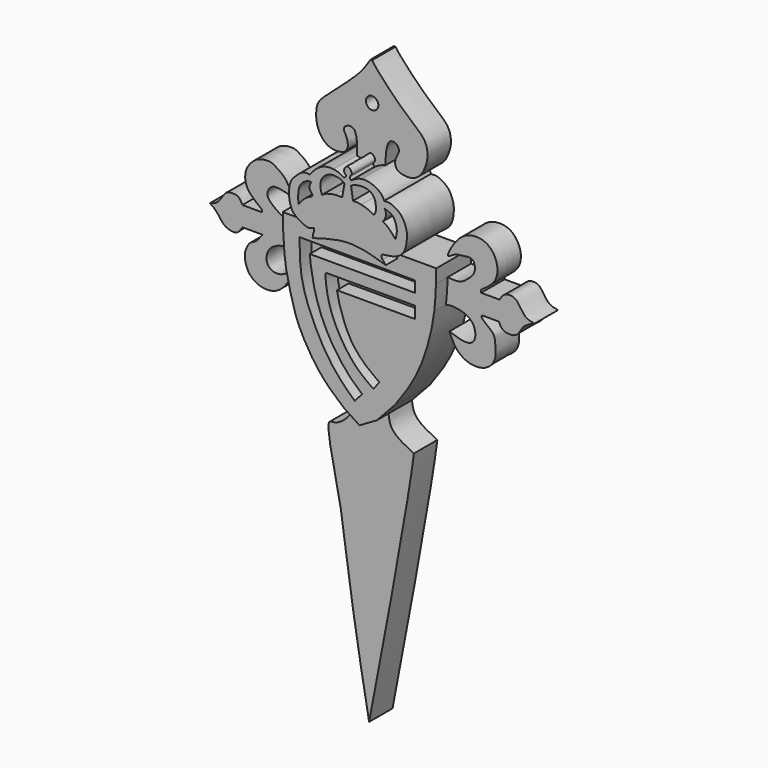
from build123d import *

# Parameters (mm, degrees)
F1_DEPTH = 3
F2_DEPTH = 2
F0_R     = 0.4262682297
F3_DEPTH = 4


with BuildPart() as f1:
    # F0 (on Front) → F1 (new body)
    with BuildSketch(Plane.XZ):
        with BuildLine():
            add(Edge.make_bspline(
                [(-13.1027866155, 18.9514383674), (-13.6197442044, 19.3918004826), (-14.645481917, 20.2655588692), (-15.7682329857, 21.9874272386), (-16.5315657683, 23.5123375251), (-17.102129389, 26.0471104539), (-17.1729458542, 26.6563486923), (-17.1908367393, 26.8668296582)],
                knots=[0, 0, 0, 0, 0.1602817398, 0.3180280717, 0.4697031826, 0.6521637691, 0.7333301774, 0.7333301774, 0.7333301774, 0.7333301774], degree=3))
            add(Edge.make_bspline(
                [(-13.1027866155, 18.9514383674), (-12.7572917069, 18.7283779184), (-12.4117967983, 18.5053174694), (-12.0663018897, 18.2822570205)],
                knots=[0, 0, 0, 0, 1.2337358963, 1.2337358963, 1.2337358963, 1.2337358963], degree=3))
            add(Edge.make_bspline(
                [(-10.8906924725, 18.9650002867), (-11.2825622782, 18.737419198), (-11.674432084, 18.5098381092), (-12.0663018897, 18.2822570205)],
                knots=[0, 0, 0, 0, 1.3594836776, 1.3594836776, 1.3594836776, 1.3594836776], degree=3))
            add(Edge.make_bspline(
                [(-10.8906924725, 18.9650002867), (-10.4753741374, 19.4115688403), (-10.0600558023, 19.858137394), (-9.6447374672, 20.3047059476)],
                knots=[0, 0, 0, 0, 1.829539596, 1.829539596, 1.829539596, 1.829539596], degree=3))
            add(Edge.make_bspline(
                [(-9.6447374672, 20.3047059476), (-9.3122008888, 20.7637540408), (-8.6432334215, 21.6872261043), (-7.8347414904, 23.2459865739), (-7.3301475528, 24.8527046593), (-7.065287737, 25.9920982841), (-6.9778935938, 26.6972600378), (-6.968906078, 26.7754107613)],
                knots=[0, 0, 0, 0, 0.1719158542, 0.3458450018, 0.515401314, 0.6888877266, 0.7102906173, 0.7102906173, 0.7102906173, 0.7102906173], degree=3))
            add(Edge.make_bspline(
                [(-6.968906078, 26.7754107613), (-6.9009752451, 27.3661016533), (-6.8679029375, 27.9973154571), (-6.8506877869, 28.4760985523)],
                knots=[0.7102906173, 0.7102906173, 0.7102906173, 0.7102906173, 0.8720612578, 0.8720612578, 0.8720612578, 0.8720612578], degree=3))
            add(Edge.make_bspline(
                [(-6.8506877869, 28.4760985523), (-6.8370729264, 28.8547513585), (-6.8333762022, 29.1380637114), (-6.829679478, 29.4213760644)],
                knots=[0.8720612578, 0.8720612578, 0.8720612578, 0.8720612578, 1, 1, 1, 1], degree=3))
            add(Edge.make_bspline(
                [(-6.829679478, 29.4213760644), (-7.5999690841, 29.4213760644), (-8.3702586902, 29.4213760644), (-9.1405482963, 29.4213760644)],
                knots=[0, 0, 0, 0, 2.3108688183, 2.3108688183, 2.3108688183, 2.3108688183], degree=3))
            add(Edge.make_bspline(
                [(-9.1405482963, 29.4213760644), (-9.3235768984, 29.4213760644), (-9.5064470046, 29.4213760644), (-9.6894756067, 29.4213760644)],
                knots=[0, 0, 0, 0, 0.5489273104, 0.5489273104, 0.5489273104, 0.5489273104], degree=3))
            add(Edge.make_bspline(
                [(-9.6894756067, 29.4213760644), (-9.632096367, 29.3399867225), (-9.5536473308, 29.2494567237), (-9.4752758741, 29.1591119021)],
                knots=[0.9551994908, 0.9551994908, 0.9551994908, 0.9551994908, 1, 1, 1, 1], degree=3))
            add(Edge.make_bspline(
                [(-9.4752758741, 29.1591119021), (-10.271134707, 29.4120368693), (-11.9197596495, 29.9230100753), (-13.6034635416, 29.4156164983), (-14.4849603609, 29.159111943)],
                knots=[0, 0, 0, 0, 0.4927335248, 1, 1, 1, 1], degree=3))
            add(Edge.make_bspline(
                [(-14.4420665168, 29.3404305536), (-14.4469561481, 29.290161769), (-14.4547783421, 29.2367227715), (-14.4849603609, 29.159111943)],
                knots=[0.2362285899, 0.2362285899, 0.2362285899, 0.2362285899, 0.4176774455, 0.4176774455, 0.4176774455, 0.4176774455], degree=3))
            add(Edge.make_bspline(
                [(-15.0857828557, 29.4003691524), (-14.8886635616, 29.3803896058), (-14.643295299, 29.3604100967), (-14.4420665132, 29.3404305533)],
                knots=[0, 0, 0, 0, 0.6445459952, 0.6445459952, 0.6445459952, 0.6445459952], degree=3))
            add(Edge.make_bspline(
                [(-17.3117835075, 29.4003691524), (-16.5697832902, 29.4003691524), (-15.827783073, 29.4003691524), (-15.0857828557, 29.4003691524)],
                knots=[0, 0, 0, 0, 2.2260006517, 2.2260006517, 2.2260006517, 2.2260006517], degree=3))
            add(Edge.make_bspline(
                [(-17.2907765955, 28.413079679), (-17.3067321302, 28.7873021062), (-17.3092578189, 29.0938356293), (-17.3117835075, 29.4003691524)],
                knots=[0.8883875046, 0.8883875046, 0.8883875046, 0.8883875046, 1, 1, 1, 1], degree=3))
            add(Edge.make_bspline(
                [(-17.1908367393, 26.8668296582), (-17.196281664, 26.9308875842), (-17.228185116, 27.346300594), (-17.2721417188, 27.9760157451), (-17.2907765955, 28.413079679)],
                knots=[0.7333301774, 0.7333301774, 0.7333301774, 0.7333301774, 0.7580324195, 0.8883875046, 0.8883875046, 0.8883875046, 0.8883875046], degree=3))
        make_face()
        with BuildLine():
            add(Edge.make_bspline(
                [(-8.2990135998, 28.2266922295), (-10.9187910954, 28.2391974082), (-13.5385685911, 28.2517025868), (-16.1583460867, 28.2642077655)],
                knots=[0, 0, 0, 0, 7.8594220243, 7.8594220243, 7.8594220243, 7.8594220243], degree=3))
            add(Edge.make_bspline(
                [(-8.2990135998, 28.2266922295), (-8.2990135998, 27.9765942444), (-8.2990135998, 27.7264962594), (-8.2990135998, 27.4763982743)],
                knots=[0, 0, 0, 0, 0.7502939552, 0.7502939552, 0.7502939552, 0.7502939552], degree=3))
            add(Edge.make_bspline(
                [(-15.4643235728, 27.4763982743), (-13.0758869151, 27.4763982743), (-10.6874502574, 27.4763982743), (-8.2990135998, 27.4763982743)],
                knots=[0, 0, 0, 0, 7.1653099731, 7.1653099731, 7.1653099731, 7.1653099731], degree=3))
            add(Edge.make_bspline(
                [(-11.9004258886, 20.217301324), (-12.1999755573, 20.4756631167), (-12.8855373693, 21.0669606452), (-14.1648381241, 22.7629464379), (-15.0957952694, 24.9355494151), (-15.4161259307, 26.8619223631), (-15.4517402867, 27.3159728708), (-15.4643235728, 27.4763982743)],
                knots=[0, 0, 0, 0, 0.1789221768, 0.4094887244, 0.6608253397, 0.8801626013, 1, 1, 1, 1], degree=3))
            add(Edge.make_bspline(
                [(-12.3881176114, 19.635822624), (-12.2255537038, 19.8296488573), (-12.0629897962, 20.0234750907), (-11.9004258886, 20.217301324)],
                knots=[0, 0, 0, 0, 0.7589207436, 0.7589207436, 0.7589207436, 0.7589207436], degree=3))
            add(Edge.make_bspline(
                [(-16.1583460867, 28.2642077655), (-16.1594664253, 28.0528799809), (-16.1625335244, 27.4743376841), (-16.1206087398, 25.2587797653), (-14.2834658729, 21.3939622621), (-12.9638005387, 20.169830539), (-12.3881176114, 19.635822624)],
                knots=[0, 0, 0, 0, 0.1411589594, 0.3864443511, 0.7323461465, 1, 1, 1, 1], degree=3))
        make_face(mode=Mode.SUBTRACT)
        with BuildLine():
            add(Edge.make_bspline(
                [(-8.2990135998, 26.7066974193), (-10.3832948953, 26.7066974193), (-12.288922444, 26.7066974193), (-14.3732037395, 26.7066974193)],
                knots=[0, 0, 0, 0, 6.0741901398, 6.0741901398, 6.0741901398, 6.0741901398], degree=3))
            add(Edge.make_bspline(
                [(-8.2990135998, 26.7066974193), (-8.2990135998, 26.4387186617), (-8.2990135998, 26.170739904), (-8.2990135998, 25.9027611464)],
                knots=[0, 0, 0, 0, 0.8039362729, 0.8039362729, 0.8039362729, 0.8039362729], degree=3))
            add(Edge.make_bspline(
                [(-8.2990135998, 25.9027611464), (-10.0706523905, 25.9027611464), (-11.8422911813, 25.9027611464), (-13.6139299721, 25.9027611464)],
                knots=[0, 0, 0, 0, 5.3149163723, 5.3149163723, 5.3149163723, 5.3149163723], degree=3))
            add(Edge.make_bspline(
                [(-10.710824281, 21.3024541736), (-10.9648287109, 21.4810520438), (-11.5356865384, 21.8824387135), (-12.6314593638, 22.9713914265), (-13.2025411492, 24.348320693), (-13.4886363129, 25.2524374171), (-13.5749033275, 25.7001973998), (-13.6139299721, 25.9027611464)],
                knots=[0, 0, 0, 0, 0.1901467919, 0.4273420923, 0.6619456547, 0.8470663807, 1, 1, 1, 1], degree=3))
            add(Edge.make_bspline(
                [(-10.710824281, 21.3024541736), (-10.8497763673, 21.128764376), (-10.9887284537, 20.9550745785), (-11.1276805401, 20.781384781)],
                knots=[0, 0, 0, 0, 0.6672948768, 0.6672948768, 0.6672948768, 0.6672948768], degree=3))
            add(Edge.make_bspline(
                [(-14.3732037395, 26.7066974193), (-14.3899014895, 26.5505586516), (-14.3968699463, 26.1476193695), (-14.1299514329, 24.5689794984), (-13.2517965415, 22.8359703646), (-12.1872395657, 21.5204225812), (-11.4639768135, 21.0173457002), (-11.1276805401, 20.781384781)],
                knots=[0, 0, 0, 0, 0.1243699542, 0.3389005144, 0.5836262327, 0.8063982193, 1, 1, 1, 1], degree=3))
        make_face(mode=Mode.SUBTRACT)
    extrude(amount=F1_DEPTH)

    # F0 (on Front) → F2 (join)
    with BuildSketch(Plane.XZ):
        with BuildLine():
            add(Edge.make_bspline(
                [(-17.1908367393, 26.8668296582), (-17.3499875587, 26.8536187193), (-17.704558741, 26.8241992829), (-18.1663393187, 26.6849802982), (-18.4206962585, 26.6083069146)],
                knots=[0, 0, 0, 0, 0.4491816141, 1, 1, 1, 1], degree=3))
            add(Edge.make_bspline(
                [(-17.1908367393, 26.8668296582), (-17.196281664, 26.9308875842), (-17.228185116, 27.346300594), (-17.2721417188, 27.9760157451), (-17.2907765955, 28.413079679)],
                knots=[0.7333301774, 0.7333301774, 0.7333301774, 0.7333301774, 0.7580324195, 0.8883875046, 0.8883875046, 0.8883875046, 0.8883875046], degree=3))
            add(Edge.make_bspline(
                [(-17.2907765955, 28.413079679), (-17.5191150365, 28.3924566326), (-17.9595903525, 28.352673831), (-18.4471718295, 28.6445264285), (-18.9991539785, 29.0627871901), (-19.1898130414, 29.3865138759), (-19.1228741732, 29.7434278329), (-18.855323012, 30.0677367522), (-18.3246585132, 30.1038617528), (-17.6901522802, 29.9216039014), (-17.3092578189, 29.812194407)],
                knots=[0, 0, 0, 0, 0.1367481729, 0.2637934919, 0.4042559087, 0.5044154045, 0.6020299357, 0.7061546221, 0.8236044484, 1, 1, 1, 1], degree=3))
            add(Edge.make_bspline(
                [(-17.3092578189, 29.812194407), (-17.4388706301, 30.0251398454), (-17.6864299754, 30.4318637857), (-18.0143794575, 30.9296618998), (-18.5898192768, 31.3072500563), (-18.9607723346, 31.5246685743), (-19.6247345022, 31.4327321673), (-20.0375072564, 31.2556152967), (-20.5511708572, 30.7016463048), (-20.6997925195, 30.1603365677), (-20.6573960909, 29.5593809723), (-20.2943940925, 29.009157728), (-19.7948883136, 28.6223522528), (-19.5167642087, 28.4069795161)],
                knots=[0, 0, 0, 0, 0.0978854215, 0.1869603059, 0.2805094667, 0.3556626832, 0.4461695233, 0.5245147976, 0.6217457207, 0.7077011617, 0.7940329804, 0.8853178574, 1, 1, 1, 1], degree=3))
            add(Edge.make_bspline(
                [(-19.5167642087, 28.4069795161), (-19.5167642087, 28.3570163366), (-19.5167642087, 28.307053157), (-19.5167642087, 28.2570899775)],
                knots=[0, 0, 0, 0, 0.1498895387, 0.1498895387, 0.1498895387, 0.1498895387], degree=3))
            add(Edge.make_bspline(
                [(-19.5167642087, 28.2570899775), (-19.9664322038, 28.2570899775), (-20.416100199, 28.2570899775), (-20.8657681942, 28.2570899775)],
                knots=[0, 0, 0, 0, 1.3490039855, 1.3490039855, 1.3490039855, 1.3490039855], degree=3))
            add(Edge.make_bspline(
                [(-20.8657681942, 28.2570899775), (-20.9479788844, 28.4175699094), (-21.102018571, 28.718264118), (-21.5141046849, 28.7553071951), (-21.9792856009, 28.7236571692), (-22.2725574982, 28.2507890888), (-22.5692769152, 27.7950024987), (-22.9146346126, 27.6968624117), (-23.0860058218, 27.6481639594)],
                knots=[0, 0, 0, 0, 0.1691925555, 0.317019212, 0.4753083147, 0.6502900841, 0.8264691604, 1, 1, 1, 1], degree=3))
            add(Edge.make_bspline(
                [(-23.0860058218, 27.6481639594), (-22.9323051731, 27.544647322), (-22.6026463219, 27.3226236934), (-22.2052637436, 26.6425543086), (-21.7291015425, 26.4424045561), (-21.1797282636, 26.4141988346), (-20.9730593833, 26.745473929), (-20.8657681942, 26.9174538553)],
                knots=[0, 0, 0, 0, 0.2013512842, 0.4318604613, 0.6194225899, 0.8024250056, 1, 1, 1, 1], degree=3))
            add(Edge.make_bspline(
                [(-20.8657681942, 26.9174538553), (-20.4067317148, 26.9174538553), (-19.9476952354, 26.9174538553), (-19.488658756, 26.9174538553)],
                knots=[0, 0, 0, 0, 1.3771094382, 1.3771094382, 1.3771094382, 1.3771094382], degree=3))
            add(Edge.make_bspline(
                [(-19.488658756, 26.9174538553), (-19.6601245095, 26.6921124887), (-19.9547960241, 26.3048533395), (-20.3756511957, 26.2255933116), (-20.7346629599, 25.5283631206), (-20.6973893252, 24.9462284053), (-20.436531313, 24.1679061582), (-19.5012829312, 23.6051800215), (-18.2157028304, 23.8180077105), (-17.6913721037, 24.7182038537), (-17.4089428037, 25.2030920237)],
                knots=[0, 0, 0, 0, 0.1190815754, 0.2046469774, 0.3195681552, 0.4247688697, 0.5447449374, 0.682191981, 0.828813587, 1, 1, 1, 1], degree=3))
            add(Edge.make_bspline(
                [(-17.4089428037, 25.2030920237), (-17.5016372716, 25.2177930185), (-17.7178514005, 25.2520837679), (-18.119901966, 24.9073517354), (-18.8907570842, 24.8753054066), (-19.3226310163, 25.4367278963), (-19.0913775046, 26.3030451674), (-18.6405010384, 26.5082623829), (-18.4206962585, 26.6083069146)],
                knots=[0, 0, 0, 0, 0.1160108229, 0.2706006042, 0.4535792016, 0.6228748292, 0.816149386, 1, 1, 1, 1], degree=3))
        make_face()
        with BuildLine():
            add(Edge.make_bspline(
                [(-6.968906078, 26.7754107613), (-6.9009752451, 27.3661016533), (-6.8679029375, 27.9973154571), (-6.8506877869, 28.4760985523)],
                knots=[0.7102906173, 0.7102906173, 0.7102906173, 0.7102906173, 0.8720612578, 0.8720612578, 0.8720612578, 0.8720612578], degree=3))
            add(Edge.make_bspline(
                [(-6.729315035, 25.2592992038), (-6.3182754889, 25.1129534511), (-5.6162121105, 24.8629921863), (-4.9075121053, 25.1758571397), (-4.9568002471, 26.2288681124), (-5.6986121974, 26.7611466686), (-6.6014959071, 26.8685571965), (-6.8627289518, 26.8006180845), (-6.968906078, 26.7754107613)],
                knots=[0, 0, 0, 0, 0.2064869095, 0.3538075334, 0.5308109373, 0.7084547074, 0.8861656091, 1, 1, 1, 1], degree=3))
            add(Edge.make_bspline(
                [(-4.5090769418, 26.9455574453), (-4.5281781968, 26.8973482273), (-4.5944201134, 26.7301617781), (-3.628568598, 26.1654921864), (-3.6296583075, 25.5725646563), (-3.4728621613, 24.6247965226), (-4.1844225498, 23.7149257283), (-5.5153574351, 23.6925897701), (-6.3726034905, 24.3944627714), (-6.6130255163, 24.9773587564), (-6.729315035, 25.2592992038)],
                knots=[0, 0, 0, 0, 0.0557659122, 0.1933925757, 0.2998566026, 0.431653932, 0.5719023248, 0.7247646363, 0.8668716485, 1, 1, 1, 1], degree=3))
            add(Edge.make_bspline(
                [(-3.3568018116, 26.9455574453), (-3.7408935217, 26.9455574453), (-4.1249852317, 26.9455574453), (-4.5090769418, 26.9455574453)],
                knots=[0, 0, 0, 0, 1.1522751302, 1.1522751302, 1.1522751302, 1.1522751302], degree=3))
            add(Edge.make_bspline(
                [(-3.3568018116, 26.9455574453), (-3.2866572131, 26.7845496239), (-3.1289027294, 26.4224446827), (-2.1342580308, 26.3448597871), (-1.807480711, 27.0527906532), (-1.4918819437, 27.3632591747), (-1.1164347654, 27.5294487502), (-0.9117295267, 27.6200603694)],
                knots=[0, 0, 0, 0, 0.1846555883, 0.4152885268, 0.6286737884, 0.7975416379, 1, 1, 1, 1], degree=3))
            add(Edge.make_bspline(
                [(-3.3005932346, 28.2801296562), (-3.2139262406, 28.4359145989), (-3.0273330109, 28.7713181275), (-2.1248506766, 28.8629836403), (-1.6832366983, 27.7385352195), (-1.1519672105, 27.6569519559), (-0.9117295267, 27.6200603694)],
                knots=[0, 0, 0, 0, 0.2112030623, 0.4547182231, 0.7534260218, 1, 1, 1, 1], degree=3))
            add(Edge.make_bspline(
                [(-4.5652855188, 28.2801296562), (-4.143721424, 28.2801296562), (-3.7221573293, 28.2801296562), (-3.3005932346, 28.2801296562)],
                knots=[0, 0, 0, 0, 1.2646922842, 1.2646922842, 1.2646922842, 1.2646922842], degree=3))
            add(Edge.make_bspline(
                [(-4.5652855188, 28.4760985523), (-4.5652855188, 28.410775587), (-4.5652855188, 28.3454526216), (-4.5652855188, 28.2801296562)],
                knots=[0, 0, 0, 0, 0.1959688962, 0.1959688962, 0.1959688962, 0.1959688962], degree=3))
            add(Edge.make_bspline(
                [(-6.8506877869, 28.4760985523), (-6.5692443504, 28.4473256137), (-6.0336601085, 28.3925709792), (-5.4857962689, 28.7848401578), (-4.8901371736, 29.3453844785), (-5.0618864297, 30.2096244697), (-5.7473951884, 30.1119297783), (-6.4053333607, 30.0517806709), (-7.0284269223, 29.5206343442), (-6.4553299443, 30.7066001801), (-5.5724594684, 31.6007443188), (-4.1410130888, 31.5629236354), (-3.4752203788, 30.6059523242), (-3.413594048, 29.7798917219), (-3.6934368411, 29.0708319524), (-4.2560238471, 28.6870620489), (-4.5652855188, 28.4760985523)],
                knots=[0, 0, 0, 0, 0.0704808285, 0.1341243611, 0.2040538769, 0.268184143, 0.3275627967, 0.395978338, 0.4479316198, 0.5213717867, 0.6132910535, 0.7011902993, 0.7824503304, 0.8527338271, 0.9190457968, 1, 1, 1, 1], degree=3))
        make_face()
        with BuildLine():
            add(Edge.make_bspline(
                [(-13.1027866155, 18.9514383674), (-13.6197442044, 19.3918004826), (-14.645481917, 20.2655588692), (-15.7682329857, 21.9874272386), (-16.5315657683, 23.5123375251), (-17.102129389, 26.0471104539), (-17.1729458542, 26.6563486923), (-17.1908367393, 26.8668296582)],
                knots=[0, 0, 0, 0, 0.1602817398, 0.3180280717, 0.4697031826, 0.6521637691, 0.7333301774, 0.7333301774, 0.7333301774, 0.7333301774], degree=3))
            add(Edge.make_bspline(
                [(-13.1027866155, 18.9514383674), (-12.7572917069, 18.7283779184), (-12.4117967983, 18.5053174694), (-12.0663018897, 18.2822570205)],
                knots=[0, 0, 0, 0, 1.2337358963, 1.2337358963, 1.2337358963, 1.2337358963], degree=3))
            add(Edge.make_bspline(
                [(-10.8906924725, 18.9650002867), (-11.2825622782, 18.737419198), (-11.674432084, 18.5098381092), (-12.0663018897, 18.2822570205)],
                knots=[0, 0, 0, 0, 1.3594836776, 1.3594836776, 1.3594836776, 1.3594836776], degree=3))
            add(Edge.make_bspline(
                [(-10.8906924725, 18.9650002867), (-10.4753741374, 19.4115688403), (-10.0600558023, 19.858137394), (-9.6447374672, 20.3047059476)],
                knots=[0, 0, 0, 0, 1.829539596, 1.829539596, 1.829539596, 1.829539596], degree=3))
            add(Edge.make_bspline(
                [(-9.6447374672, 20.3047059476), (-9.3122008888, 20.7637540408), (-8.6432334215, 21.6872261043), (-7.8347414904, 23.2459865739), (-7.3301475528, 24.8527046593), (-7.065287737, 25.9920982841), (-6.9778935938, 26.6972600378), (-6.968906078, 26.7754107613)],
                knots=[0, 0, 0, 0, 0.1719158542, 0.3458450018, 0.515401314, 0.6888877266, 0.7102906173, 0.7102906173, 0.7102906173, 0.7102906173], degree=3))
            add(Edge.make_bspline(
                [(-6.968906078, 26.7754107613), (-6.9009752451, 27.3661016533), (-6.8679029375, 27.9973154571), (-6.8506877869, 28.4760985523)],
                knots=[0.7102906173, 0.7102906173, 0.7102906173, 0.7102906173, 0.8720612578, 0.8720612578, 0.8720612578, 0.8720612578], degree=3))
            add(Edge.make_bspline(
                [(-6.8506877869, 28.4760985523), (-6.8370729264, 28.8547513585), (-6.8333762022, 29.1380637114), (-6.829679478, 29.4213760644)],
                knots=[0.8720612578, 0.8720612578, 0.8720612578, 0.8720612578, 1, 1, 1, 1], degree=3))
            add(Edge.make_bspline(
                [(-6.829679478, 29.4213760644), (-7.5999690841, 29.4213760644), (-8.3702586902, 29.4213760644), (-9.1405482963, 29.4213760644)],
                knots=[0, 0, 0, 0, 2.3108688183, 2.3108688183, 2.3108688183, 2.3108688183], degree=3))
            add(Edge.make_bspline(
                [(-9.1405482963, 29.4213760644), (-9.3235768984, 29.4213760644), (-9.5064470046, 29.4213760644), (-9.6894756067, 29.4213760644)],
                knots=[0, 0, 0, 0, 0.5489273104, 0.5489273104, 0.5489273104, 0.5489273104], degree=3))
            add(Edge.make_bspline(
                [(-9.6894756067, 29.4213760644), (-9.632096367, 29.3399867225), (-9.5536473308, 29.2494567237), (-9.4752758741, 29.1591119021)],
                knots=[0.9551994908, 0.9551994908, 0.9551994908, 0.9551994908, 1, 1, 1, 1], degree=3))
            add(Edge.make_bspline(
                [(-9.4752758741, 29.1591119021), (-10.271134707, 29.4120368693), (-11.9197596495, 29.9230100753), (-13.6034635416, 29.4156164983), (-14.4849603609, 29.159111943)],
                knots=[0, 0, 0, 0, 0.4927335248, 1, 1, 1, 1], degree=3))
            add(Edge.make_bspline(
                [(-14.4420665168, 29.3404305536), (-14.4469561481, 29.290161769), (-14.4547783421, 29.2367227715), (-14.4849603609, 29.159111943)],
                knots=[0.2362285899, 0.2362285899, 0.2362285899, 0.2362285899, 0.4176774455, 0.4176774455, 0.4176774455, 0.4176774455], degree=3))
            add(Edge.make_bspline(
                [(-15.0857828557, 29.4003691524), (-14.8886635616, 29.3803896058), (-14.643295299, 29.3604100967), (-14.4420665132, 29.3404305533)],
                knots=[0, 0, 0, 0, 0.6445459952, 0.6445459952, 0.6445459952, 0.6445459952], degree=3))
            add(Edge.make_bspline(
                [(-17.3117835075, 29.4003691524), (-16.5697832902, 29.4003691524), (-15.827783073, 29.4003691524), (-15.0857828557, 29.4003691524)],
                knots=[0, 0, 0, 0, 2.2260006517, 2.2260006517, 2.2260006517, 2.2260006517], degree=3))
            add(Edge.make_bspline(
                [(-17.2907765955, 28.413079679), (-17.3067321302, 28.7873021062), (-17.3092578189, 29.0938356293), (-17.3117835075, 29.4003691524)],
                knots=[0.8883875046, 0.8883875046, 0.8883875046, 0.8883875046, 1, 1, 1, 1], degree=3))
            add(Edge.make_bspline(
                [(-17.1908367393, 26.8668296582), (-17.196281664, 26.9308875842), (-17.228185116, 27.346300594), (-17.2721417188, 27.9760157451), (-17.2907765955, 28.413079679)],
                knots=[0.7333301774, 0.7333301774, 0.7333301774, 0.7333301774, 0.7580324195, 0.8883875046, 0.8883875046, 0.8883875046, 0.8883875046], degree=3))
        make_face()
        with BuildLine():
            add(Edge.make_bspline(
                [(-8.2990135998, 28.2266922295), (-10.9187910954, 28.2391974082), (-13.5385685911, 28.2517025868), (-16.1583460867, 28.2642077655)],
                knots=[0, 0, 0, 0, 7.8594220243, 7.8594220243, 7.8594220243, 7.8594220243], degree=3))
            add(Edge.make_bspline(
                [(-8.2990135998, 28.2266922295), (-8.2990135998, 27.9765942444), (-8.2990135998, 27.7264962594), (-8.2990135998, 27.4763982743)],
                knots=[0, 0, 0, 0, 0.7502939552, 0.7502939552, 0.7502939552, 0.7502939552], degree=3))
            add(Edge.make_bspline(
                [(-15.4643235728, 27.4763982743), (-13.0758869151, 27.4763982743), (-10.6874502574, 27.4763982743), (-8.2990135998, 27.4763982743)],
                knots=[0, 0, 0, 0, 7.1653099731, 7.1653099731, 7.1653099731, 7.1653099731], degree=3))
            add(Edge.make_bspline(
                [(-11.9004258886, 20.217301324), (-12.1999755573, 20.4756631167), (-12.8855373693, 21.0669606452), (-14.1648381241, 22.7629464379), (-15.0957952694, 24.9355494151), (-15.4161259307, 26.8619223631), (-15.4517402867, 27.3159728708), (-15.4643235728, 27.4763982743)],
                knots=[0, 0, 0, 0, 0.1789221768, 0.4094887244, 0.6608253397, 0.8801626013, 1, 1, 1, 1], degree=3))
            add(Edge.make_bspline(
                [(-12.3881176114, 19.635822624), (-12.2255537038, 19.8296488573), (-12.0629897962, 20.0234750907), (-11.9004258886, 20.217301324)],
                knots=[0, 0, 0, 0, 0.7589207436, 0.7589207436, 0.7589207436, 0.7589207436], degree=3))
            add(Edge.make_bspline(
                [(-16.1583460867, 28.2642077655), (-16.1594664253, 28.0528799809), (-16.1625335244, 27.4743376841), (-16.1206087398, 25.2587797653), (-14.2834658729, 21.3939622621), (-12.9638005387, 20.169830539), (-12.3881176114, 19.635822624)],
                knots=[0, 0, 0, 0, 0.1411589594, 0.3864443511, 0.7323461465, 1, 1, 1, 1], degree=3))
        make_face(mode=Mode.SUBTRACT)
        with BuildLine():
            add(Edge.make_bspline(
                [(-8.2990135998, 26.7066974193), (-10.3832948953, 26.7066974193), (-12.288922444, 26.7066974193), (-14.3732037395, 26.7066974193)],
                knots=[0, 0, 0, 0, 6.0741901398, 6.0741901398, 6.0741901398, 6.0741901398], degree=3))
            add(Edge.make_bspline(
                [(-8.2990135998, 26.7066974193), (-8.2990135998, 26.4387186617), (-8.2990135998, 26.170739904), (-8.2990135998, 25.9027611464)],
                knots=[0, 0, 0, 0, 0.8039362729, 0.8039362729, 0.8039362729, 0.8039362729], degree=3))
            add(Edge.make_bspline(
                [(-8.2990135998, 25.9027611464), (-10.0706523905, 25.9027611464), (-11.8422911813, 25.9027611464), (-13.6139299721, 25.9027611464)],
                knots=[0, 0, 0, 0, 5.3149163723, 5.3149163723, 5.3149163723, 5.3149163723], degree=3))
            add(Edge.make_bspline(
                [(-10.710824281, 21.3024541736), (-10.9648287109, 21.4810520438), (-11.5356865384, 21.8824387135), (-12.6314593638, 22.9713914265), (-13.2025411492, 24.348320693), (-13.4886363129, 25.2524374171), (-13.5749033275, 25.7001973998), (-13.6139299721, 25.9027611464)],
                knots=[0, 0, 0, 0, 0.1901467919, 0.4273420923, 0.6619456547, 0.8470663807, 1, 1, 1, 1], degree=3))
            add(Edge.make_bspline(
                [(-10.710824281, 21.3024541736), (-10.8497763673, 21.128764376), (-10.9887284537, 20.9550745785), (-11.1276805401, 20.781384781)],
                knots=[0, 0, 0, 0, 0.6672948768, 0.6672948768, 0.6672948768, 0.6672948768], degree=3))
            add(Edge.make_bspline(
                [(-14.3732037395, 26.7066974193), (-14.3899014895, 26.5505586516), (-14.3968699463, 26.1476193695), (-14.1299514329, 24.5689794984), (-13.2517965415, 22.8359703646), (-12.1872395657, 21.5204225812), (-11.4639768135, 21.0173457002), (-11.1276805401, 20.781384781)],
                knots=[0, 0, 0, 0, 0.1243699542, 0.3389005144, 0.5836262327, 0.8063982193, 1, 1, 1, 1], degree=3))
        make_face(mode=Mode.SUBTRACT)
        with BuildLine():
            add(Edge.make_bspline(
                [(-8.2990135998, 26.7066974193), (-8.2990135998, 26.4387186617), (-8.2990135998, 26.170739904), (-8.2990135998, 25.9027611464)],
                knots=[0, 0, 0, 0, 0.8039362729, 0.8039362729, 0.8039362729, 0.8039362729], degree=3))
            add(Edge.make_bspline(
                [(-8.2990135998, 26.7066974193), (-10.3832948953, 26.7066974193), (-12.288922444, 26.7066974193), (-14.3732037395, 26.7066974193)],
                knots=[0, 0, 0, 0, 6.0741901398, 6.0741901398, 6.0741901398, 6.0741901398], degree=3))
            add(Edge.make_bspline(
                [(-14.3732037395, 26.7066974193), (-14.3899014895, 26.5505586516), (-14.3968699463, 26.1476193695), (-14.1299514329, 24.5689794984), (-13.2517965415, 22.8359703646), (-12.1872395657, 21.5204225812), (-11.4639768135, 21.0173457002), (-11.1276805401, 20.781384781)],
                knots=[0, 0, 0, 0, 0.1243699542, 0.3389005144, 0.5836262327, 0.8063982193, 1, 1, 1, 1], degree=3))
            add(Edge.make_bspline(
                [(-10.710824281, 21.3024541736), (-10.8497763673, 21.128764376), (-10.9887284537, 20.9550745785), (-11.1276805401, 20.781384781)],
                knots=[0, 0, 0, 0, 0.6672948768, 0.6672948768, 0.6672948768, 0.6672948768], degree=3))
            add(Edge.make_bspline(
                [(-10.710824281, 21.3024541736), (-10.9648287109, 21.4810520438), (-11.5356865384, 21.8824387135), (-12.6314593638, 22.9713914265), (-13.2025411492, 24.348320693), (-13.4886363129, 25.2524374171), (-13.5749033275, 25.7001973998), (-13.6139299721, 25.9027611464)],
                knots=[0, 0, 0, 0, 0.1901467919, 0.4273420923, 0.6619456547, 0.8470663807, 1, 1, 1, 1], degree=3))
            add(Edge.make_bspline(
                [(-8.2990135998, 25.9027611464), (-10.0706523905, 25.9027611464), (-11.8422911813, 25.9027611464), (-13.6139299721, 25.9027611464)],
                knots=[0, 0, 0, 0, 5.3149163723, 5.3149163723, 5.3149163723, 5.3149163723], degree=3))
        make_face()
        with BuildLine():
            add(Edge.make_bspline(
                [(-8.2990135998, 28.2266922295), (-8.2990135998, 27.9765942444), (-8.2990135998, 27.7264962594), (-8.2990135998, 27.4763982743)],
                knots=[0, 0, 0, 0, 0.7502939552, 0.7502939552, 0.7502939552, 0.7502939552], degree=3))
            add(Edge.make_bspline(
                [(-8.2990135998, 28.2266922295), (-10.9187910954, 28.2391974082), (-13.5385685911, 28.2517025868), (-16.1583460867, 28.2642077655)],
                knots=[0, 0, 0, 0, 7.8594220243, 7.8594220243, 7.8594220243, 7.8594220243], degree=3))
            add(Edge.make_bspline(
                [(-16.1583460867, 28.2642077655), (-16.1594664253, 28.0528799809), (-16.1625335244, 27.4743376841), (-16.1206087398, 25.2587797653), (-14.2834658729, 21.3939622621), (-12.9638005387, 20.169830539), (-12.3881176114, 19.635822624)],
                knots=[0, 0, 0, 0, 0.1411589594, 0.3864443511, 0.7323461465, 1, 1, 1, 1], degree=3))
            add(Edge.make_bspline(
                [(-12.3881176114, 19.635822624), (-12.2255537038, 19.8296488573), (-12.0629897962, 20.0234750907), (-11.9004258886, 20.217301324)],
                knots=[0, 0, 0, 0, 0.7589207436, 0.7589207436, 0.7589207436, 0.7589207436], degree=3))
            add(Edge.make_bspline(
                [(-11.9004258886, 20.217301324), (-12.1999755573, 20.4756631167), (-12.8855373693, 21.0669606452), (-14.1648381241, 22.7629464379), (-15.0957952694, 24.9355494151), (-15.4161259307, 26.8619223631), (-15.4517402867, 27.3159728708), (-15.4643235728, 27.4763982743)],
                knots=[0, 0, 0, 0, 0.1789221768, 0.4094887244, 0.6608253397, 0.8801626013, 1, 1, 1, 1], degree=3))
            add(Edge.make_bspline(
                [(-15.4643235728, 27.4763982743), (-13.0758869151, 27.4763982743), (-10.6874502574, 27.4763982743), (-8.2990135998, 27.4763982743)],
                knots=[0, 0, 0, 0, 7.1653099731, 7.1653099731, 7.1653099731, 7.1653099731], degree=3))
        make_face()
        with BuildLine():
            add(Edge.make_bspline(
                [(-13.1027866155, 18.9514383674), (-12.7572917069, 18.7283779184), (-12.4117967983, 18.5053174694), (-12.0663018897, 18.2822570205)],
                knots=[0, 0, 0, 0, 1.2337358963, 1.2337358963, 1.2337358963, 1.2337358963], degree=3))
            add(Edge.make_bspline(
                [(-13.1027866155, 18.9514383674), (-13.2051038188, 18.6827596321), (-13.404592384, 18.1589012842), (-13.84097761, 17.6219195244), (-14.5406999373, 17.149568123), (-15.3089960233, 17.378695539), (-14.1241385933, 12.6251545706), (-13.8055518069, 9.2984894783), (-12.8296931452, 3.328575316), (-12.214828264, 0)],
                knots=[0, 0, 0, 0, 0.0887544759, 0.1704473227, 0.2574613606, 0.3159289455, 0.5096319139, 0.7033348823, 1, 1, 1, 1], degree=3))
            add(Edge.make_bspline(
                [(-12.214828264, 0), (-11.090725915, 5.7401887737), (-9.5343314377, 14.3309600855), (-9.239738122, 16.500834293), (-9.1596208513, 17.1279441565)],
                knots=[0, 0, 0, 0, 0.7128999241, 1, 1, 1, 1], degree=3))
            add(Edge.make_bspline(
                [(-9.1596208513, 17.1279441565), (-9.4300791212, 17.2567126402), (-9.9755022051, 17.5163952283), (-10.7822131492, 18.1215630587), (-10.8554854423, 18.6912622228), (-10.8906924725, 18.9650002867)],
                knots=[0, 0, 0, 0, 0.3381821445, 0.6819992905, 1, 1, 1, 1], degree=3))
            add(Edge.make_bspline(
                [(-10.8906924725, 18.9650002867), (-11.2825622782, 18.737419198), (-11.674432084, 18.5098381092), (-12.0663018897, 18.2822570205)],
                knots=[0, 0, 0, 0, 1.3594836776, 1.3594836776, 1.3594836776, 1.3594836776], degree=3))
        make_face()
    extrude(amount=F2_DEPTH)



with BuildPart() as f2:
    # F0 (on Front) → F2, piece 2 (new body)
    with BuildSketch(Plane.XZ):
        with BuildLine():
            add(Edge.make_bspline(
                [(-13.0570889022, 33.7699230008), (-13.0373171407, 34.0526327317), (-13.0003492857, 34.5831844683), (-13.1678762878, 35.2865016034), (-13.387725736, 35.3753082819), (-13.5990164654, 35.4113857794), (-13.8582645643, 35.2914942202), (-14.003957046, 35.0625903298), (-13.7183274627, 34.6643522787), (-13.6206091909, 34.0985358716), (-13.8431903264, 33.6743869053), (-14.6406084846, 33.5250667063), (-15.3879936002, 33.8795253888), (-15.8714958073, 34.8031022501), (-15.8280059493, 35.8146506703), (-15.613666036, 36.3139691214), (-14.5005360389, 37.2781925628), (-12.7924318378, 38.7990496983), (-12.3827490587, 39.4398928264), (-12.2036382406, 39.7182051124), (-12.1255544946, 39.8395359516)],
                knots=[0, 0, 0, 0, 0.0642665368, 0.1207723146, 0.1517593343, 0.1831671841, 0.2194858738, 0.2519045853, 0.2986216984, 0.350828729, 0.3954736596, 0.4548693858, 0.5163858682, 0.5861972417, 0.6544436713, 0.7033361291, 0.7874329088, 0.8940444443, 0.9538113475, 1, 1, 1, 1], degree=3))
            add(Edge.make_bspline(
                [(-13.0570889022, 33.7699230008), (-12.9167195175, 33.751620404), (-12.6343803054, 33.6771056198), (-12.427483145, 33.5512655187), (-12.3224342242, 33.4873721004)],
                knots=[0.6987972686, 0.6987972686, 0.6987972686, 0.6987972686, 0.8470688441, 1, 1, 1, 1], degree=3))
            add(Edge.make_bspline(
                [(-12.3224342242, 33.4873721004), (-12.2581336202, 33.5393787982), (-12.1210285055, 33.6502702026), (-12.4266602462, 33.8373079561), (-12.1405035973, 34.4236812522), (-11.6558526568, 33.8932697447), (-12.0091977603, 33.6650054073), (-11.8942640734, 33.5422765725), (-11.8428468704, 33.4873721004)],
                knots=[0, 0, 0, 0, 0.1378632469, 0.2939592338, 0.4932765733, 0.6988745319, 0.8652872824, 1, 1, 1, 1], degree=3))
            add(Edge.make_bspline(
                [(-11.8428468704, 33.4873721004), (-11.6993948746, 33.5773344817), (-11.4762294945, 33.7168168465), (-11.2106436618, 33.7897187014), (-11.1166870848, 33.8040997926)],
                knots=[0, 0, 0, 0, 0.199375384, 0.3013825192, 0.3013825192, 0.3013825192, 0.3013825192], degree=3))
            add(Edge.make_bspline(
                [(-11.1166870848, 33.8040997926), (-11.102851249, 34.1096860399), (-11.0773646561, 34.668163959), (-10.9164417799, 35.3289112337), (-10.6127852082, 35.4385665862), (-10.3423784425, 35.3764002935), (-10.0962445544, 35.0278085597), (-10.3218569092, 34.6370764974), (-10.4745612566, 34.2962168602), (-10.3919656036, 33.7793912899), (-9.867064287, 33.5991704955), (-9.2118143579, 33.597496614), (-8.5869039788, 34.0172512496), (-8.2652640771, 34.8913475313), (-8.210727682, 35.3831678267), (-8.2931574468, 36.218395815), (-9.4470813453, 37.1521537522), (-10.552791305, 38.1408739839), (-11.7706922836, 39.4890119866), (-11.952364786, 39.7548645959), (-12.0104746893, 39.8395359516)],
                knots=[0, 0, 0, 0, 0.065226502, 0.1194321229, 0.1547674745, 0.1896002788, 0.2308394276, 0.2748496617, 0.3173366261, 0.3631836703, 0.4116448228, 0.4664402217, 0.5245432604, 0.5893249224, 0.6378165692, 0.6970375556, 0.778276573, 0.8663408824, 0.9573777645, 1, 1, 1, 1], degree=3))
            add(Edge.make_bspline(
                [(-12.0104746893, 39.8395359516), (-12.0488346244, 39.8395359516), (-12.0871945595, 39.8395359516), (-12.1255544946, 39.8395359516)],
                knots=[0, 0, 0, 0, 0.1150798053, 0.1150798053, 0.1150798053, 0.1150798053], degree=3))
        make_face()
        with Locations((-12.0104746893, 37.263520062)):
            Circle(F0_R, mode=Mode.SUBTRACT)
    extrude(amount=F2_DEPTH)


with BuildPart() as f2b:
    # F0 (on Front) → F2, piece 3 (new body)
    with BuildSketch(Plane.XZ):
        with BuildLine():
            Line((-12.9530228789, 33.3958219274), (-12.9530228789, 32.2592288434))
            add(Edge.make_bspline(
                [(-12.9530228789, 32.2592288434), (-12.9274508205, 32.2617769334), (-12.736557615, 32.2781357993), (-12.5841430603, 32.2714704659), (-12.4517744407, 32.2656817734)],
                knots=[0.6369351268, 0.6369351268, 0.6369351268, 0.6369351268, 0.6846863071, 1, 1, 1, 1], degree=3))
            add(Edge.make_bspline(
                [(-12.4517744407, 32.2656817734), (-12.4016419674, 32.5553367535), (-12.3515094941, 32.8449917336), (-12.3013770208, 33.1346467137)],
                knots=[0, 0, 0, 0, 0.8818840351, 0.8818840351, 0.8818840351, 0.8818840351], degree=3))
            add(Edge.make_bspline(
                [(-12.3013770208, 33.1346467137), (-12.3425490905, 33.1770402974), (-12.4458608997, 33.285245644), (-12.73803308, 33.3745058989), (-12.9199222329, 33.3936375591), (-12.9530228789, 33.3958219274)],
                knots=[0, 0, 0, 0, 0.1017054459, 0.25070585, 0.2842769852, 0.2842769852, 0.2842769852, 0.2842769852], degree=3))
        make_face()
    extrude(amount=F2_DEPTH)


with BuildPart() as f2c:
    # F0 (on Front) → F2, piece 4 (new body)
    with BuildSketch(Plane.XZ):
        with BuildLine():
            add(Edge.make_bspline(
                [(-11.1479187474, 33.3606028467), (-11.3784223615, 33.3545466007), (-11.6241570562, 33.3003742813), (-11.850181967, 33.1764258444)],
                knots=[0.7848252557, 0.7848252557, 0.7848252557, 0.7848252557, 1, 1, 1, 1], degree=3))
            add(Edge.make_bspline(
                [(-11.850181967, 33.1764258444), (-11.805619734, 32.8839843472), (-11.761057501, 32.5915428499), (-11.716495268, 32.2991013527)],
                knots=[0, 0, 0, 0, 0.887451631, 0.887451631, 0.887451631, 0.887451631], degree=3))
            add(Edge.make_bspline(
                [(-11.716495268, 32.2991013527), (-11.6499972046, 32.3012469386), (-11.5059265153, 32.3058064235), (-11.2785263007, 32.2805370158), (-11.1479187474, 32.2534901053)],
                knots=[0, 0, 0, 0, 0.1950798802, 0.4226602646, 0.4226602646, 0.4226602646, 0.4226602646], degree=3))
            Line((-11.1479187474, 32.2534901053), (-11.1479187474, 33.3606028467))
        make_face()
    extrude(amount=F2_DEPTH)


with BuildPart() as f1_1:
    add(f1.part)

    add(f2.part)  # F3 merges F2

    add(f2b.part)  # F3 merges F2b

    add(f2c.part)  # F3 merges F2c
    # F0 (on Front) → F3 (join)
    with BuildSketch(Plane.XZ):
        with BuildLine():
            add(Edge.make_bspline(
                [(-14.3950113948, 29.5669889243), (-14.4343054192, 29.4659472478), (-14.435700697, 29.4058755742), (-14.4420665168, 29.3404305536)],
                knots=[0, 0, 0, 0, 0.2362285899, 0.2362285899, 0.2362285899, 0.2362285899], degree=3))
            add(Edge.make_bspline(
                [(-14.4420665168, 29.3404305536), (-14.4469561481, 29.290161769), (-14.4547783421, 29.2367227715), (-14.4849603609, 29.159111943)],
                knots=[0.2362285899, 0.2362285899, 0.2362285899, 0.2362285899, 0.4176774455, 0.4176774455, 0.4176774455, 0.4176774455], degree=3))
            add(Edge.make_bspline(
                [(-9.4752758741, 29.1591119021), (-10.271134707, 29.4120368693), (-11.9197596495, 29.9230100753), (-13.6034635416, 29.4156164983), (-14.4849603609, 29.159111943)],
                knots=[0, 0, 0, 0, 0.4927335248, 1, 1, 1, 1], degree=3))
            add(Edge.make_bspline(
                [(-9.6894756067, 29.4213760644), (-9.632096367, 29.3399867225), (-9.5536473308, 29.2494567237), (-9.4752758741, 29.1591119021)],
                knots=[0.9551994908, 0.9551994908, 0.9551994908, 0.9551994908, 1, 1, 1, 1], degree=3))
            add(Edge.make_bspline(
                [(-9.5899021253, 32.9854786396), (-9.5418876845, 32.9841136719), (-9.4390658081, 32.9806820791), (-9.2452554717, 33.0122957447), (-8.841354219, 32.8343007988), (-8.5550637021, 32.6352662706), (-8.2705501975, 32.336120217), (-8.0378478561, 31.7340540856), (-8.012099065, 31.2388154021), (-8.1505472544, 30.1852081026), (-9.0300050086, 29.7598129279), (-9.8725292644, 29.7687541396), (-9.7577706565, 29.5182488913), (-9.6894756067, 29.4213760644)],
                knots=[0, 0, 0, 0, 0.0491234091, 0.1052982509, 0.1896605686, 0.2666193835, 0.3486515012, 0.4498243846, 0.5428369005, 0.6692052477, 0.796033423, 0.9018761456, 0.9551994908, 0.9551994908, 0.9551994908, 0.9551994908], degree=3))
            add(Edge.make_bspline(
                [(-11.1166870848, 33.8040997926), (-11.0138008101, 33.8198476725), (-10.6817944428, 33.8303374525), (-10.1140438891, 33.6147116104), (-9.7616627834, 33.3388890827), (-9.6123135593, 33.0944729352), (-9.5899021253, 32.9854786396)],
                knots=[0.3013825192, 0.3013825192, 0.3013825192, 0.3013825192, 0.4130844825, 0.6455305736, 0.8317874986, 1, 1, 1, 1], degree=3))
            add(Edge.make_bspline(
                [(-11.8428468704, 33.4873721004), (-11.6993948746, 33.5773344817), (-11.4762294945, 33.7168168465), (-11.2106436618, 33.7897187014), (-11.1166870848, 33.8040997926)],
                knots=[0, 0, 0, 0, 0.199375384, 0.3013825192, 0.3013825192, 0.3013825192, 0.3013825192], degree=3))
            add(Edge.make_bspline(
                [(-12.3224342242, 33.4873721004), (-12.2581336202, 33.5393787982), (-12.1210285055, 33.6502702026), (-12.4266602462, 33.8373079561), (-12.1405035973, 34.4236812522), (-11.6558526568, 33.8932697447), (-12.0091977603, 33.6650054073), (-11.8942640734, 33.5422765725), (-11.8428468704, 33.4873721004)],
                knots=[0, 0, 0, 0, 0.1378632469, 0.2939592338, 0.4932765733, 0.6988745319, 0.8652872824, 1, 1, 1, 1], degree=3))
            add(Edge.make_bspline(
                [(-13.0570889022, 33.7699230008), (-12.9167195175, 33.751620404), (-12.6343803054, 33.6771056198), (-12.427483145, 33.5512655187), (-12.3224342242, 33.4873721004)],
                knots=[0.6987972686, 0.6987972686, 0.6987972686, 0.6987972686, 0.8470688441, 1, 1, 1, 1], degree=3))
            add(Edge.make_bspline(
                [(-14.6757578477, 32.9185575247), (-14.5831764938, 33.0300214422), (-14.4000283364, 33.2505238461), (-14.0966951249, 33.5270309), (-13.6211056885, 33.7665194705), (-13.2679891371, 33.7933921548), (-13.0798683413, 33.7728931847), (-13.0570889022, 33.7699230008)],
                knots=[0, 0, 0, 0, 0.1625280328, 0.3215194901, 0.5004034462, 0.6747354453, 0.6987972686, 0.6987972686, 0.6987972686, 0.6987972686], degree=3))
            add(Edge.make_bspline(
                [(-14.3950113948, 29.8068188131), (-14.5109753863, 29.748184264), (-14.7727572514, 29.6158202308), (-15.3529331219, 29.9191273166), (-15.8642125148, 30.2431563091), (-16.1087540349, 30.9807757046), (-16.0850264351, 31.8693422496), (-15.8487427496, 32.3237200342), (-15.388393046, 32.7459649621), (-15.0818525074, 32.9588133444), (-14.8129568354, 32.9321579442), (-14.6757578477, 32.9185575247)],
                knots=[0, 0, 0, 0, 0.0929188642, 0.2097588507, 0.3251309251, 0.4544105389, 0.5938527091, 0.7004737139, 0.8169618132, 0.9066081884, 1, 1, 1, 1], degree=3))
            add(Edge.make_bspline(
                [(-14.3950113948, 29.5669889243), (-14.3950113948, 29.6469322206), (-14.3950113948, 29.7268755168), (-14.3950113948, 29.8068188131)],
                knots=[0, 0, 0, 0, 0.2398298887, 0.2398298887, 0.2398298887, 0.2398298887], degree=3))
        make_face()
        with BuildLine():
            add(Edge.make_bspline(
                [(-15.4437823221, 30.8880154043), (-15.2523504417, 31.1222109644), (-14.9284803245, 31.5184299395), (-14.3202889862, 31.6706524222), (-14.7933282023, 32.0503237162), (-14.6490779105, 32.3419534644), (-14.5738329738, 32.4940755963)],
                knots=[0, 0, 0, 0, 0.3236228051, 0.5475146331, 0.7639711342, 1, 1, 1, 1], degree=3))
            add(Edge.make_bspline(
                [(-14.5738329738, 32.4940755963), (-14.6249150668, 32.4998044998), (-14.7528486864, 32.5141523722), (-15.1279307453, 32.3521047797), (-15.4947471177, 31.8646878658), (-15.4622440563, 31.2418099634), (-15.4437823221, 30.8880154043)],
                knots=[0, 0, 0, 0, 0.1479357689, 0.3705008411, 0.6424445681, 1, 1, 1, 1], degree=3))
        make_face(mode=Mode.SUBTRACT)
        with BuildLine():
            add(Edge.make_bspline(
                [(-13.8387801126, 31.9648832083), (-13.7343847539, 32.0313504733), (-13.5156742393, 32.1706008186), (-13.1313062874, 32.2414640558), (-12.9530228789, 32.2592288434)],
                knots=[0, 0, 0, 0, 0.3040232021, 0.6369351268, 0.6369351268, 0.6369351268, 0.6369351268], degree=3))
            add(Edge.make_bspline(
                [(-12.9530228789, 33.3958219274), (-13.0679260831, 33.4034045866), (-13.3067513951, 33.3851027233), (-13.5988398353, 33.2296522221), (-13.8551963296, 32.9837466895), (-13.999553291, 32.4818276065), (-13.8934114966, 32.1401402855), (-13.8387801126, 31.9648832083)],
                knots=[0.2842769852, 0.2842769852, 0.2842769852, 0.2842769852, 0.4008134117, 0.53558997, 0.6701871734, 0.8310521054, 1, 1, 1, 1], degree=3))
            add(Edge.make_bspline(
                [(-12.3013770208, 33.1346467137), (-12.3425490905, 33.1770402974), (-12.4458608997, 33.285245644), (-12.73803308, 33.3745058989), (-12.9199222329, 33.3936375591), (-12.9530228789, 33.3958219274)],
                knots=[0, 0, 0, 0, 0.1017054459, 0.25070585, 0.2842769852, 0.2842769852, 0.2842769852, 0.2842769852], degree=3))
            add(Edge.make_bspline(
                [(-12.4517744407, 32.2656817734), (-12.4016419674, 32.5553367535), (-12.3515094941, 32.8449917336), (-12.3013770208, 33.1346467137)],
                knots=[0, 0, 0, 0, 0.8818840351, 0.8818840351, 0.8818840351, 0.8818840351], degree=3))
            add(Edge.make_bspline(
                [(-12.9530228789, 32.2592288434), (-12.9274508205, 32.2617769334), (-12.736557615, 32.2781357993), (-12.5841430603, 32.2714704659), (-12.4517744407, 32.2656817734)],
                knots=[0.6369351268, 0.6369351268, 0.6369351268, 0.6369351268, 0.6846863071, 1, 1, 1, 1], degree=3))
        make_face(mode=Mode.SUBTRACT)
        with BuildLine():
            add(Edge.make_bspline(
                [(-11.850181967, 33.1764258444), (-11.805619734, 32.8839843472), (-11.761057501, 32.5915428499), (-11.716495268, 32.2991013527)],
                knots=[0, 0, 0, 0, 0.887451631, 0.887451631, 0.887451631, 0.887451631], degree=3))
            add(Edge.make_bspline(
                [(-11.1479187474, 33.3606028467), (-11.3784223615, 33.3545466007), (-11.6241570562, 33.3003742813), (-11.850181967, 33.1764258444)],
                knots=[0.7848252557, 0.7848252557, 0.7848252557, 0.7848252557, 1, 1, 1, 1], degree=3))
            add(Edge.make_bspline(
                [(-10.3211347014, 31.9063961506), (-10.2740380247, 31.9425269359), (-10.1410716707, 32.0448087683), (-10.1314521743, 32.7434956192), (-10.4338347584, 33.2544267772), (-10.85902035, 33.3604051851), (-11.1142713842, 33.3614868966), (-11.1479187474, 33.3606028467)],
                knots=[0, 0, 0, 0, 0.1202722389, 0.33972338, 0.5442281479, 0.7534154976, 0.7848252557, 0.7848252557, 0.7848252557, 0.7848252557], degree=3))
            add(Edge.make_bspline(
                [(-11.1479187474, 32.2534901053), (-11.1177891715, 32.2472507116), (-10.9091534237, 32.1997769366), (-10.5551667961, 32.0651871026), (-10.3900241627, 31.953173226), (-10.3211347014, 31.9063961506)],
                knots=[0.4226602646, 0.4226602646, 0.4226602646, 0.4226602646, 0.4751602945, 0.7810348342, 1, 1, 1, 1], degree=3))
            add(Edge.make_bspline(
                [(-11.716495268, 32.2991013527), (-11.6499972046, 32.3012469386), (-11.5059265153, 32.3058064235), (-11.2785263007, 32.2805370158), (-11.1479187474, 32.2534901053)],
                knots=[0, 0, 0, 0, 0.1950798802, 0.4226602646, 0.4226602646, 0.4226602646, 0.4226602646], degree=3))
        make_face(mode=Mode.SUBTRACT)
        with BuildLine():
            add(Edge.make_bspline(
                [(-9.5524331555, 32.533057034), (-9.4718615566, 32.4012938961), (-9.4225637687, 32.1040662755), (-9.5642278903, 31.8498700071), (-9.6944756806, 31.7058637738)],
                knots=[0, 0, 0, 0, 0.484038816, 1, 1, 1, 1], degree=3))
            add(Edge.make_bspline(
                [(-8.8087972254, 30.9120975435), (-8.7696313708, 31.0739992159), (-8.6903427176, 31.4017583236), (-8.7788262837, 31.9306077974), (-9.0312615293, 32.3664627069), (-9.3752344936, 32.476414864), (-9.5524331555, 32.533057034)],
                knots=[0, 0, 0, 0, 0.2484455956, 0.5029614918, 0.743949183, 1, 1, 1, 1], degree=3))
            add(Edge.make_bspline(
                [(-9.6944756806, 31.7058637738), (-9.5892361118, 31.6597476092), (-9.3274449077, 31.545030242), (-9.0028847899, 31.1489526768), (-8.8087972254, 30.9120975435)],
                knots=[0, 0, 0, 0, 0.401998108, 1, 1, 1, 1], degree=3))
        make_face(mode=Mode.SUBTRACT)
    extrude(amount=F3_DEPTH)


solid = f1_1.part
